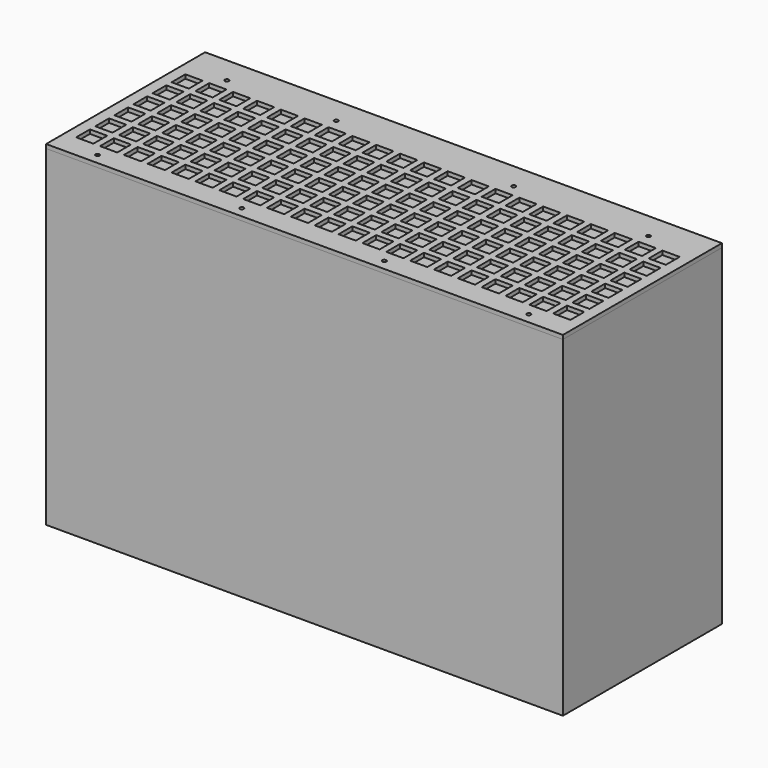
from build123d import *

# Parameters (mm, degrees)
F0_W     = 390
F0_H     = 150
F0_R     = 1.5
F0_W_2   = 13
F0_H_2   = 13
F1_DEPTH = 3
F2_W     = 390
F2_H     = 150
F2_R     = 1.5
F3_DEPTH = 2
F4_W     = 390
F4_H     = 150
F4_W_2   = 386
F4_H_2   = 146
F5_DEPTH = 250


with BuildPart() as f1:
    # F0 (on Top) → F1 (new body)
    with BuildSketch(Plane.XY):
        with Locations((195, -75)):
            Rectangle(F0_W, F0_H)
        with Locations((32.44184, -141.899839)):
            Circle(F0_R, mode=Mode.SUBTRACT)
        with Locations((15, -125.751842)):
            Rectangle(F0_W_2, F0_H_2, mode=Mode.SUBTRACT)
        with Locations((33, -125.751842)):
            Rectangle(F0_W_2, F0_H_2, mode=Mode.SUBTRACT)
        with Locations((51, -125.751842)):
            Rectangle(F0_W_2, F0_H_2, mode=Mode.SUBTRACT)
        with Locations((69, -125.751842)):
            Rectangle(F0_W_2, F0_H_2, mode=Mode.SUBTRACT)
        with Locations((87, -125.751842)):
            Rectangle(F0_W_2, F0_H_2, mode=Mode.SUBTRACT)
        with Locations((141.269222, -141.899839)):
            Circle(F0_R, mode=Mode.SUBTRACT)
        with Locations((105, -125.751842)):
            Rectangle(F0_W_2, F0_H_2, mode=Mode.SUBTRACT)
        with Locations((123, -125.751842)):
            Rectangle(F0_W_2, F0_H_2, mode=Mode.SUBTRACT)
        with Locations((141, -125.751842)):
            Rectangle(F0_W_2, F0_H_2, mode=Mode.SUBTRACT)
        with Locations((159, -125.751842)):
            Rectangle(F0_W_2, F0_H_2, mode=Mode.SUBTRACT)
        with Locations((177, -125.751842)):
            Rectangle(F0_W_2, F0_H_2, mode=Mode.SUBTRACT)
        with Locations((15, -107.751842)):
            Rectangle(F0_W_2, F0_H_2, mode=Mode.SUBTRACT)
        with Locations((33, -107.751842)):
            Rectangle(F0_W_2, F0_H_2, mode=Mode.SUBTRACT)
        with Locations((51, -107.751842)):
            Rectangle(F0_W_2, F0_H_2, mode=Mode.SUBTRACT)
        with Locations((69, -107.751842)):
            Rectangle(F0_W_2, F0_H_2, mode=Mode.SUBTRACT)
        with Locations((87, -107.751842)):
            Rectangle(F0_W_2, F0_H_2, mode=Mode.SUBTRACT)
        with Locations((15, -89.751842)):
            Rectangle(F0_W_2, F0_H_2, mode=Mode.SUBTRACT)
        with Locations((33, -89.751842)):
            Rectangle(F0_W_2, F0_H_2, mode=Mode.SUBTRACT)
        with Locations((51, -89.751842)):
            Rectangle(F0_W_2, F0_H_2, mode=Mode.SUBTRACT)
        with Locations((69, -89.751842)):
            Rectangle(F0_W_2, F0_H_2, mode=Mode.SUBTRACT)
        with Locations((87, -89.751842)):
            Rectangle(F0_W_2, F0_H_2, mode=Mode.SUBTRACT)
        with Locations((105, -107.751842)):
            Rectangle(F0_W_2, F0_H_2, mode=Mode.SUBTRACT)
        with Locations((123, -107.751842)):
            Rectangle(F0_W_2, F0_H_2, mode=Mode.SUBTRACT)
        with Locations((141, -107.751842)):
            Rectangle(F0_W_2, F0_H_2, mode=Mode.SUBTRACT)
        with Locations((159, -107.751842)):
            Rectangle(F0_W_2, F0_H_2, mode=Mode.SUBTRACT)
        with Locations((177, -107.751842)):
            Rectangle(F0_W_2, F0_H_2, mode=Mode.SUBTRACT)
        with Locations((105, -89.751842)):
            Rectangle(F0_W_2, F0_H_2, mode=Mode.SUBTRACT)
        with Locations((123, -89.751842)):
            Rectangle(F0_W_2, F0_H_2, mode=Mode.SUBTRACT)
        with Locations((141, -89.751842)):
            Rectangle(F0_W_2, F0_H_2, mode=Mode.SUBTRACT)
        with Locations((159, -89.751842)):
            Rectangle(F0_W_2, F0_H_2, mode=Mode.SUBTRACT)
        with Locations((177, -89.751842)):
            Rectangle(F0_W_2, F0_H_2, mode=Mode.SUBTRACT)
        with Locations((248.813361, -141.899839)):
            Circle(F0_R, mode=Mode.SUBTRACT)
        with Locations((195, -125.751842)):
            Rectangle(F0_W_2, F0_H_2, mode=Mode.SUBTRACT)
        with Locations((213, -125.751842)):
            Rectangle(F0_W_2, F0_H_2, mode=Mode.SUBTRACT)
        with Locations((231, -125.751842)):
            Rectangle(F0_W_2, F0_H_2, mode=Mode.SUBTRACT)
        with Locations((249, -125.751842)):
            Rectangle(F0_W_2, F0_H_2, mode=Mode.SUBTRACT)
        with Locations((267, -125.751842)):
            Rectangle(F0_W_2, F0_H_2, mode=Mode.SUBTRACT)
        with Locations((285, -125.751842)):
            Rectangle(F0_W_2, F0_H_2, mode=Mode.SUBTRACT)
        with Locations((357.838094, -141.899839)):
            Circle(F0_R, mode=Mode.SUBTRACT)
        with Locations((303, -125.751842)):
            Rectangle(F0_W_2, F0_H_2, mode=Mode.SUBTRACT)
        with Locations((321, -125.751842)):
            Rectangle(F0_W_2, F0_H_2, mode=Mode.SUBTRACT)
        with Locations((339, -125.751842)):
            Rectangle(F0_W_2, F0_H_2, mode=Mode.SUBTRACT)
        with Locations((357, -125.751842)):
            Rectangle(F0_W_2, F0_H_2, mode=Mode.SUBTRACT)
        with Locations((375, -125.751842)):
            Rectangle(F0_W_2, F0_H_2, mode=Mode.SUBTRACT)
        with Locations((195, -107.751842)):
            Rectangle(F0_W_2, F0_H_2, mode=Mode.SUBTRACT)
        with Locations((213, -107.751842)):
            Rectangle(F0_W_2, F0_H_2, mode=Mode.SUBTRACT)
        with Locations((231, -107.751842)):
            Rectangle(F0_W_2, F0_H_2, mode=Mode.SUBTRACT)
        with Locations((249, -107.751842)):
            Rectangle(F0_W_2, F0_H_2, mode=Mode.SUBTRACT)
        with Locations((267, -107.751842)):
            Rectangle(F0_W_2, F0_H_2, mode=Mode.SUBTRACT)
        with Locations((285, -107.751842)):
            Rectangle(F0_W_2, F0_H_2, mode=Mode.SUBTRACT)
        with Locations((195, -89.751842)):
            Rectangle(F0_W_2, F0_H_2, mode=Mode.SUBTRACT)
        with Locations((213, -89.751842)):
            Rectangle(F0_W_2, F0_H_2, mode=Mode.SUBTRACT)
        with Locations((231, -89.751842)):
            Rectangle(F0_W_2, F0_H_2, mode=Mode.SUBTRACT)
        with Locations((249, -89.751842)):
            Rectangle(F0_W_2, F0_H_2, mode=Mode.SUBTRACT)
        with Locations((267, -89.751842)):
            Rectangle(F0_W_2, F0_H_2, mode=Mode.SUBTRACT)
        with Locations((285, -89.751842)):
            Rectangle(F0_W_2, F0_H_2, mode=Mode.SUBTRACT)
        with Locations((303, -107.751842)):
            Rectangle(F0_W_2, F0_H_2, mode=Mode.SUBTRACT)
        with Locations((321, -107.751842)):
            Rectangle(F0_W_2, F0_H_2, mode=Mode.SUBTRACT)
        with Locations((339, -107.751842)):
            Rectangle(F0_W_2, F0_H_2, mode=Mode.SUBTRACT)
        with Locations((357, -107.751842)):
            Rectangle(F0_W_2, F0_H_2, mode=Mode.SUBTRACT)
        with Locations((375, -107.751842)):
            Rectangle(F0_W_2, F0_H_2, mode=Mode.SUBTRACT)
        with Locations((303, -89.751842)):
            Rectangle(F0_W_2, F0_H_2, mode=Mode.SUBTRACT)
        with Locations((321, -89.751842)):
            Rectangle(F0_W_2, F0_H_2, mode=Mode.SUBTRACT)
        with Locations((339, -89.751842)):
            Rectangle(F0_W_2, F0_H_2, mode=Mode.SUBTRACT)
        with Locations((357, -89.751842)):
            Rectangle(F0_W_2, F0_H_2, mode=Mode.SUBTRACT)
        with Locations((375, -89.751842)):
            Rectangle(F0_W_2, F0_H_2, mode=Mode.SUBTRACT)
        with Locations((15, -71.751842)):
            Rectangle(F0_W_2, F0_H_2, mode=Mode.SUBTRACT)
        with Locations((33, -71.751842)):
            Rectangle(F0_W_2, F0_H_2, mode=Mode.SUBTRACT)
        with Locations((51, -71.751842)):
            Rectangle(F0_W_2, F0_H_2, mode=Mode.SUBTRACT)
        with Locations((69, -71.751842)):
            Rectangle(F0_W_2, F0_H_2, mode=Mode.SUBTRACT)
        with Locations((87, -71.751842)):
            Rectangle(F0_W_2, F0_H_2, mode=Mode.SUBTRACT)
        with Locations((15, -53.751842)):
            Rectangle(F0_W_2, F0_H_2, mode=Mode.SUBTRACT)
        with Locations((33, -53.751842)):
            Rectangle(F0_W_2, F0_H_2, mode=Mode.SUBTRACT)
        with Locations((51, -53.751842)):
            Rectangle(F0_W_2, F0_H_2, mode=Mode.SUBTRACT)
        with Locations((69, -53.751842)):
            Rectangle(F0_W_2, F0_H_2, mode=Mode.SUBTRACT)
        with Locations((87, -53.751842)):
            Rectangle(F0_W_2, F0_H_2, mode=Mode.SUBTRACT)
        with Locations((105, -71.751842)):
            Rectangle(F0_W_2, F0_H_2, mode=Mode.SUBTRACT)
        with Locations((123, -71.751842)):
            Rectangle(F0_W_2, F0_H_2, mode=Mode.SUBTRACT)
        with Locations((141, -71.751842)):
            Rectangle(F0_W_2, F0_H_2, mode=Mode.SUBTRACT)
        with Locations((159, -71.751842)):
            Rectangle(F0_W_2, F0_H_2, mode=Mode.SUBTRACT)
        with Locations((177, -71.751842)):
            Rectangle(F0_W_2, F0_H_2, mode=Mode.SUBTRACT)
        with Locations((105, -53.751842)):
            Rectangle(F0_W_2, F0_H_2, mode=Mode.SUBTRACT)
        with Locations((123, -53.751842)):
            Rectangle(F0_W_2, F0_H_2, mode=Mode.SUBTRACT)
        with Locations((141, -53.751842)):
            Rectangle(F0_W_2, F0_H_2, mode=Mode.SUBTRACT)
        with Locations((159, -53.751842)):
            Rectangle(F0_W_2, F0_H_2, mode=Mode.SUBTRACT)
        with Locations((177, -53.751842)):
            Rectangle(F0_W_2, F0_H_2, mode=Mode.SUBTRACT)
        with Locations((15, -35.751842)):
            Rectangle(F0_W_2, F0_H_2, mode=Mode.SUBTRACT)
        with Locations((33, -35.751842)):
            Rectangle(F0_W_2, F0_H_2, mode=Mode.SUBTRACT)
        with Locations((32.44184, -20.007424)):
            Circle(F0_R, mode=Mode.SUBTRACT)
        with Locations((51, -35.751842)):
            Rectangle(F0_W_2, F0_H_2, mode=Mode.SUBTRACT)
        with Locations((69, -35.751842)):
            Rectangle(F0_W_2, F0_H_2, mode=Mode.SUBTRACT)
        with Locations((87, -35.751842)):
            Rectangle(F0_W_2, F0_H_2, mode=Mode.SUBTRACT)
        with Locations((105, -35.751842)):
            Rectangle(F0_W_2, F0_H_2, mode=Mode.SUBTRACT)
        with Locations((123, -35.751842)):
            Rectangle(F0_W_2, F0_H_2, mode=Mode.SUBTRACT)
        with Locations((141, -35.751842)):
            Rectangle(F0_W_2, F0_H_2, mode=Mode.SUBTRACT)
        with Locations((115, -20.007424)):
            Circle(F0_R, mode=Mode.SUBTRACT)
        with Locations((159, -35.751842)):
            Rectangle(F0_W_2, F0_H_2, mode=Mode.SUBTRACT)
        with Locations((177, -35.751842)):
            Rectangle(F0_W_2, F0_H_2, mode=Mode.SUBTRACT)
        with Locations((195, -71.751842)):
            Rectangle(F0_W_2, F0_H_2, mode=Mode.SUBTRACT)
        with Locations((213, -71.751842)):
            Rectangle(F0_W_2, F0_H_2, mode=Mode.SUBTRACT)
        with Locations((231, -71.751842)):
            Rectangle(F0_W_2, F0_H_2, mode=Mode.SUBTRACT)
        with Locations((249, -71.751842)):
            Rectangle(F0_W_2, F0_H_2, mode=Mode.SUBTRACT)
        with Locations((267, -71.751842)):
            Rectangle(F0_W_2, F0_H_2, mode=Mode.SUBTRACT)
        with Locations((285, -71.751842)):
            Rectangle(F0_W_2, F0_H_2, mode=Mode.SUBTRACT)
        with Locations((195, -53.751842)):
            Rectangle(F0_W_2, F0_H_2, mode=Mode.SUBTRACT)
        with Locations((213, -53.751842)):
            Rectangle(F0_W_2, F0_H_2, mode=Mode.SUBTRACT)
        with Locations((231, -53.751842)):
            Rectangle(F0_W_2, F0_H_2, mode=Mode.SUBTRACT)
        with Locations((249, -53.751842)):
            Rectangle(F0_W_2, F0_H_2, mode=Mode.SUBTRACT)
        with Locations((267, -53.751842)):
            Rectangle(F0_W_2, F0_H_2, mode=Mode.SUBTRACT)
        with Locations((285, -53.751842)):
            Rectangle(F0_W_2, F0_H_2, mode=Mode.SUBTRACT)
        with Locations((303, -71.751842)):
            Rectangle(F0_W_2, F0_H_2, mode=Mode.SUBTRACT)
        with Locations((321, -71.751842)):
            Rectangle(F0_W_2, F0_H_2, mode=Mode.SUBTRACT)
        with Locations((339, -71.751842)):
            Rectangle(F0_W_2, F0_H_2, mode=Mode.SUBTRACT)
        with Locations((357, -71.751842)):
            Rectangle(F0_W_2, F0_H_2, mode=Mode.SUBTRACT)
        with Locations((375, -71.751842)):
            Rectangle(F0_W_2, F0_H_2, mode=Mode.SUBTRACT)
        with Locations((303, -53.751842)):
            Rectangle(F0_W_2, F0_H_2, mode=Mode.SUBTRACT)
        with Locations((321, -53.751842)):
            Rectangle(F0_W_2, F0_H_2, mode=Mode.SUBTRACT)
        with Locations((339, -53.751842)):
            Rectangle(F0_W_2, F0_H_2, mode=Mode.SUBTRACT)
        with Locations((357, -53.751842)):
            Rectangle(F0_W_2, F0_H_2, mode=Mode.SUBTRACT)
        with Locations((375, -53.751842)):
            Rectangle(F0_W_2, F0_H_2, mode=Mode.SUBTRACT)
        with Locations((195, -35.751842)):
            Rectangle(F0_W_2, F0_H_2, mode=Mode.SUBTRACT)
        with Locations((213, -35.751842)):
            Rectangle(F0_W_2, F0_H_2, mode=Mode.SUBTRACT)
        with Locations((231, -35.751842)):
            Rectangle(F0_W_2, F0_H_2, mode=Mode.SUBTRACT)
        with Locations((249, -35.751842)):
            Rectangle(F0_W_2, F0_H_2, mode=Mode.SUBTRACT)
        with Locations((267, -35.751842)):
            Rectangle(F0_W_2, F0_H_2, mode=Mode.SUBTRACT)
        with Locations((285, -35.751842)):
            Rectangle(F0_W_2, F0_H_2, mode=Mode.SUBTRACT)
        with Locations((248.813361, -20.007424)):
            Circle(F0_R, mode=Mode.SUBTRACT)
        with Locations((303, -35.751842)):
            Rectangle(F0_W_2, F0_H_2, mode=Mode.SUBTRACT)
        with Locations((321, -35.751842)):
            Rectangle(F0_W_2, F0_H_2, mode=Mode.SUBTRACT)
        with Locations((339, -35.751842)):
            Rectangle(F0_W_2, F0_H_2, mode=Mode.SUBTRACT)
        with Locations((357, -35.751842)):
            Rectangle(F0_W_2, F0_H_2, mode=Mode.SUBTRACT)
        with Locations((375, -35.751842)):
            Rectangle(F0_W_2, F0_H_2, mode=Mode.SUBTRACT)
        with Locations((350.5, -20.007424)):
            Circle(F0_R, mode=Mode.SUBTRACT)
    extrude(amount=F1_DEPTH)


with BuildPart() as f3:
    # F2 (on Top) → F3 (new body)
    with BuildSketch(Plane.XY):
        with Locations((195, -75)):
            Rectangle(F2_W, F2_H)
        with Locations((32.441826, -141.899837)):
            Circle(F2_R, mode=Mode.SUBTRACT)
        with Locations((141.269222, -141.899914)):
            Circle(F2_R, mode=Mode.SUBTRACT)
        with Locations((248.813261, -141.899885)):
            Circle(F2_R, mode=Mode.SUBTRACT)
        with Locations((357.838035, -141.899854)):
            Circle(F2_R, mode=Mode.SUBTRACT)
        with Locations((32.44191, -20.007376)):
            Circle(F2_R, mode=Mode.SUBTRACT)
        with Locations((115.000114, -20.007426)):
            Circle(F2_R, mode=Mode.SUBTRACT)
        with Locations((248.813346, -20.007424)):
            Circle(F2_R, mode=Mode.SUBTRACT)
        with Locations((350.499988, -20.007383)):
            Circle(F2_R, mode=Mode.SUBTRACT)
    extrude(amount=-F3_DEPTH)


with BuildPart() as f5:
    # F4 (on Top) → F5 (new body)
    with BuildSketch(Plane.XY):
        with Locations((195, -75)):
            Rectangle(F4_W, F4_H)
        with Locations((195, -75)):
            Rectangle(F4_W_2, F4_H_2, mode=Mode.SUBTRACT)
    extrude(amount=-F5_DEPTH)


solid = Compound([f1.part, f3.part, f5.part])
